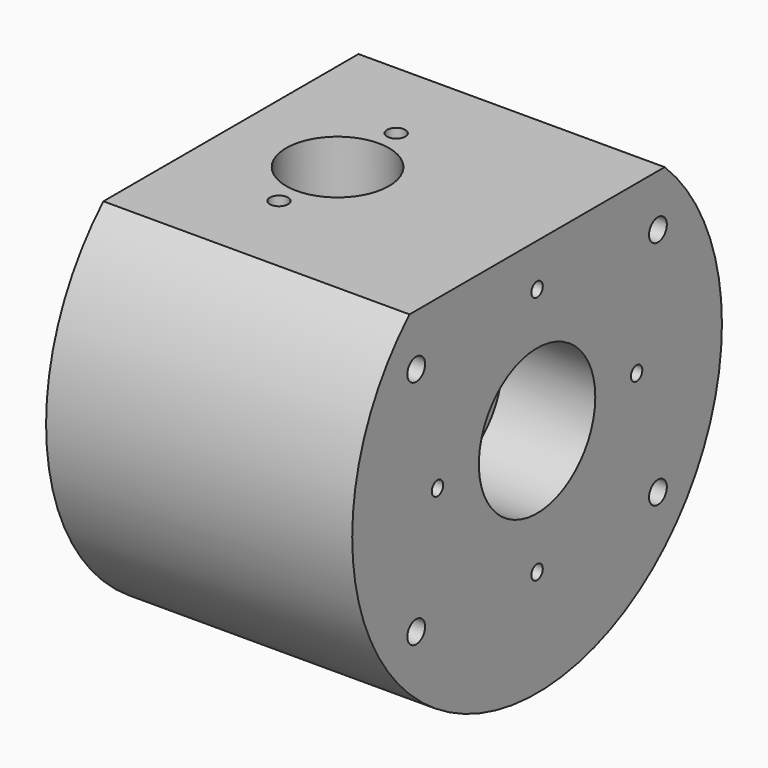
from build123d import *

# Parameters (mm, degrees)
F1_DEPTH  = 106.1974
F2_R      = 25.9969
F3_DEPTH  = 29.9974
F4_R      = 31.75
F5_DEPTH  = 63.5
F6_R      = 17.4625
F7_DEPTH  = 76.201
F8_R      = 21.43125
F8_R_2    = 17.4625
F9_DEPTH  = 7.9248
F10_R     = 18.3769
F11_DEPTH = 33.8506424127
F12_DEPTH = 3.175
F14_D     = 6.5278
F14_DEPTH = 25.4
F14_TIP   = 1.9611489744
F17_D     = 5.1054
F17_DEPTH = 19.05
F17_TIP   = 1.5338169022
F18_R     = 37.6555
F18_R_2   = 34.4805
F19_DEPTH = 2.3622
F20_D     = 5.1054
F20_DEPTH = 19.05
F20_TIP   = 1.5338169022
F22_D     = 7.9375
F22_DEPTH = 25.4
F22_TIP   = 2.3846655818


with BuildPart() as f1:
    # F0 (on Right) → F1 (new body)
    with BuildSketch(Plane.YZ):
        with BuildLine():
            Line((56.9696350292, 59.7408), (-56.9696350292, 59.7408))
            ThreePointArc((-56.9696350292, 59.7408), (0, -82.55), (56.9696350292, 59.7408))
        make_face()
    extrude(amount=-F1_DEPTH)

    # F2 (on face) → F3 (cut)
    with BuildSketch(Plane.YZ):
        Circle(F2_R)
    extrude(amount=-F3_DEPTH, mode=Mode.SUBTRACT)

    # F4 (on face) → F5 (cut)
    with BuildSketch(Plane(origin=(-106.1974, 0, 0), x_dir=(0, -1, 0), z_dir=(-1, 0, 0))):
        Circle(F4_R)
    extrude(amount=-F5_DEPTH, mode=Mode.SUBTRACT)

    # F6 (on face) → F7 (cut, through all)
    with BuildSketch(Plane.YZ.offset(-29.9974)):
        Circle(F6_R)
    extrude(amount=-F7_DEPTH, mode=Mode.SUBTRACT)

    # F8 (on face) → F9 (cut)
    with BuildSketch(Plane.YZ.offset(-29.9974)):
        Circle(F8_R)
        Circle(F8_R_2, mode=Mode.SUBTRACT)
        Circle(F8_R_2)
    extrude(amount=-F9_DEPTH, mode=Mode.SUBTRACT)

    # F10 (on face) → F11 (cut, through all)
    with BuildSketch(Plane.XY.offset(59.7408)):
        with Locations((-68.0974, 0)):
            Circle(F10_R)
    extrude(amount=-F11_DEPTH, mode=Mode.SUBTRACT)

    # F12 (add): a face of the model
    f12_faces = [f1.faces().sort_by_distance(p)[0] for p in [
        (0, 0, 57.5612431238),
    ]]
    extrude(f12_faces, amount=F12_DEPTH)

    # F14
    with Locations(Plane.XY.offset(59.7408)):
        with Locations((-68.0974, 26.1874), (-68.0974, -26.1874)):
            Hole(F14_D / 2, depth=F14_DEPTH)
            with Locations((0, 0, -(F14_DEPTH + F14_TIP / 2))):  # 118° drill point
                Cone(0, F14_D / 2, F14_TIP, mode=Mode.SUBTRACT)

    # F17
    with Locations(Plane.YZ.offset(3.175)):
        with Locations((44.45, 0), (0, -44.45), (-44.45, 0), (0, 44.45)):
            Hole(F17_D / 2, depth=F17_DEPTH)
            with Locations((0, 0, -(F17_DEPTH + F17_TIP / 2))):  # 118° drill point
                Cone(0, F17_D / 2, F17_TIP, mode=Mode.SUBTRACT)

    # F18 (on face) → F19 (cut)
    with BuildSketch(Plane(origin=(-106.1974, 0, 0), x_dir=(0, -1, 0), z_dir=(-1, 0, 0))):
        Circle(F18_R)
        Circle(F18_R_2, mode=Mode.SUBTRACT)
    extrude(amount=-F19_DEPTH, mode=Mode.SUBTRACT)

    # F20
    with Locations(Plane(origin=(-106.1974, 0, 0), x_dir=(0, -1, 0), z_dir=(-1, 0, 0))):
        with Locations((-29.1858323935, 29.1858323935), (29.1858323935, 29.1858323935), (29.1858323935, -29.1858323935), (-29.1858323935, -29.1858323935)):
            Hole(F20_D / 2, depth=F20_DEPTH)
            with Locations((0, 0, -(F20_DEPTH + F20_TIP / 2))):  # 118° drill point
                Cone(0, F20_D / 2, F20_TIP, mode=Mode.SUBTRACT)

    # F22
    with Locations(Plane.YZ.offset(3.175)):
        with Locations((53.975, 41.275), (-53.975, 41.275), (-53.975, -41.275), (53.975, -41.275)):
            Hole(F22_D / 2, depth=F22_DEPTH)
            with Locations((0, 0, -(F22_DEPTH + F22_TIP / 2))):  # 118° drill point
                Cone(0, F22_D / 2, F22_TIP, mode=Mode.SUBTRACT)


solid = f1.part
